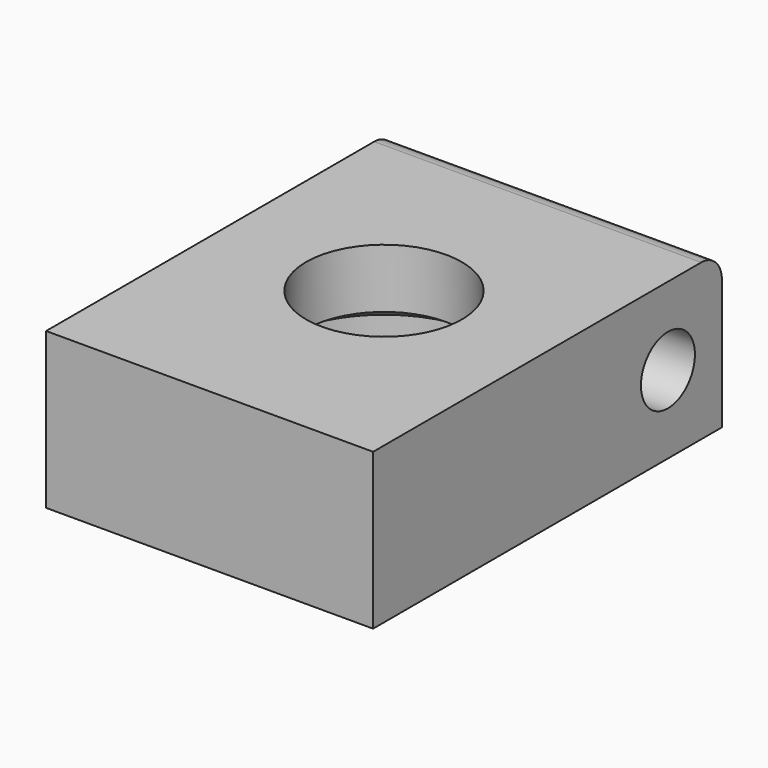
from build123d import *

# Parameters (mm, degrees)
F0_W     = 63
F0_H     = 84
F2_DEPTH = 30
F3_D     = 30
F5_D     = 42
F5_DEPTH = 15
F5_TIP   = 12.6180729996
F7_D     = 13
F8_R     = 5


with BuildPart() as f2:
    # F0 (on Top) → F2 (new body)
    with BuildSketch(Plane.XY):
        Rectangle(F0_W, F0_H)
    extrude(amount=F2_DEPTH)

    # F3 (through all)
    with Locations(Plane(origin=(0, 0, 0), x_dir=(1, 0, 0), z_dir=(0, 0, -1))):
        with Locations((0, 0)):
            Hole(F3_D / 2)

    # F5
    with Locations(Plane(origin=(0, 0, 0), x_dir=(1, 0, 0), z_dir=(0, 0, -1))):
        with Locations((0, 0)):
            Hole(F5_D / 2, depth=F5_DEPTH)
            with Locations((0, 0, -(F5_DEPTH + F5_TIP / 2))):  # 118° drill point
                Cone(0, F5_D / 2, F5_TIP, mode=Mode.SUBTRACT)

    # F7 (through all)
    with Locations(Plane(origin=(-31.5, 0, 0), x_dir=(0, -1, 0), z_dir=(-1, 0, 0))):
        with Locations((-29, 15)):
            Hole(F7_D / 2)

    # F8
    f8_edges = [f2.edges().sort_by_distance(p)[0] for p in [
        (0, 42, 30),
    ]]
    fillet(f8_edges, radius=F8_R)


solid = f2.part
